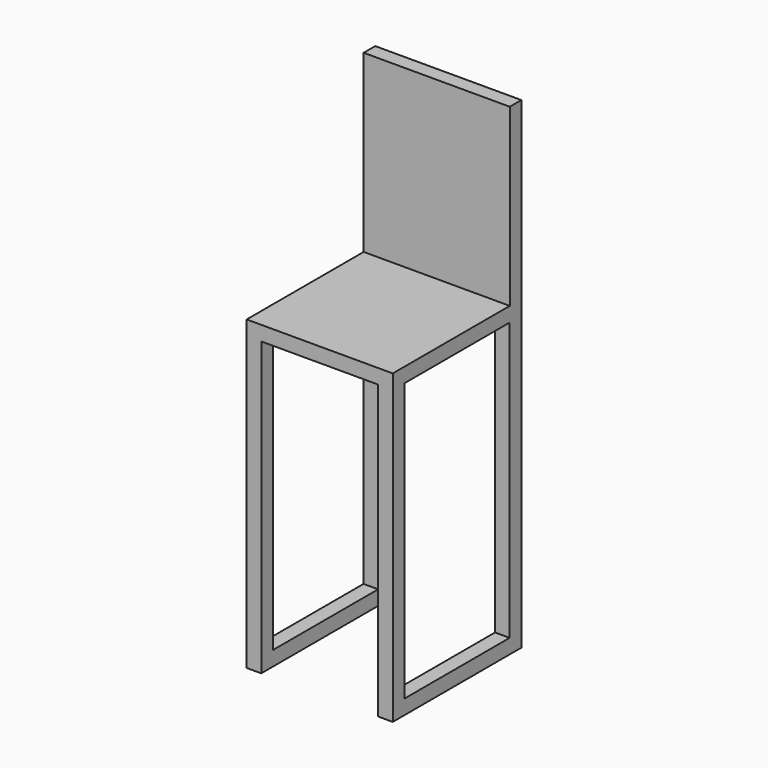
from build123d import *

# Parameters (mm, degrees)
F1_DEPTH = 13.97
F2_W     = 12.7
F2_H     = 1.257444
F3_DEPTH = 15.24
F4_W     = 1.27
F4_H     = 1.27
F5_DEPTH = 25.4
F6_W     = 1.27
F6_H     = 1.27
F7_DEPTH = 12.7


with BuildPart() as f1:
    # F0 (on Front) → F1 (new body)
    with BuildSketch(Plane.XZ):
        Polygon((-6.35, 0), (0, 0), (6.35, 0), (6.35, 1.27), (0, 1.27), (-6.35, 1.27), align=None)
    extrude(amount=F1_DEPTH)

    # F2 (on face) → F3 (join)
    with BuildSketch(Plane.XY.offset(1.27)):
        with Locations((0, -0.628722)):
            Rectangle(F2_W, F2_H)
    extrude(amount=F3_DEPTH)

    # F4 (on face) → F5 (join)
    with BuildSketch(Plane(origin=(0, 0, 0), x_dir=(1, 0, 0), z_dir=(0, 0, -1))):
        with Locations((-5.715, 13.335)):
            Rectangle(F4_W, F4_H)
        with Locations((-5.715, 0.635)):
            Rectangle(F4_W, F4_H)
        with Locations((5.715, 0.635)):
            Rectangle(F4_W, F4_H)
        with Locations((5.715, 13.335)):
            Rectangle(F4_W, F4_H)
    extrude(amount=F5_DEPTH)

    # F6 (on face) → F7 (join)
    with BuildSketch(Plane(origin=(0, -12.7, 0), x_dir=(-1, 0, 0), z_dir=(0, 1, 0))):
        with Locations((-5.715, -24.765)):
            Rectangle(F6_W, F6_H)
    extrude(amount=F7_DEPTH)

    # F8: F1 across plane


with BuildPart() as f1_1:
    add(f1.part)
    add(f1.part.mirror(Plane.YZ))


solid = f1_1.part
